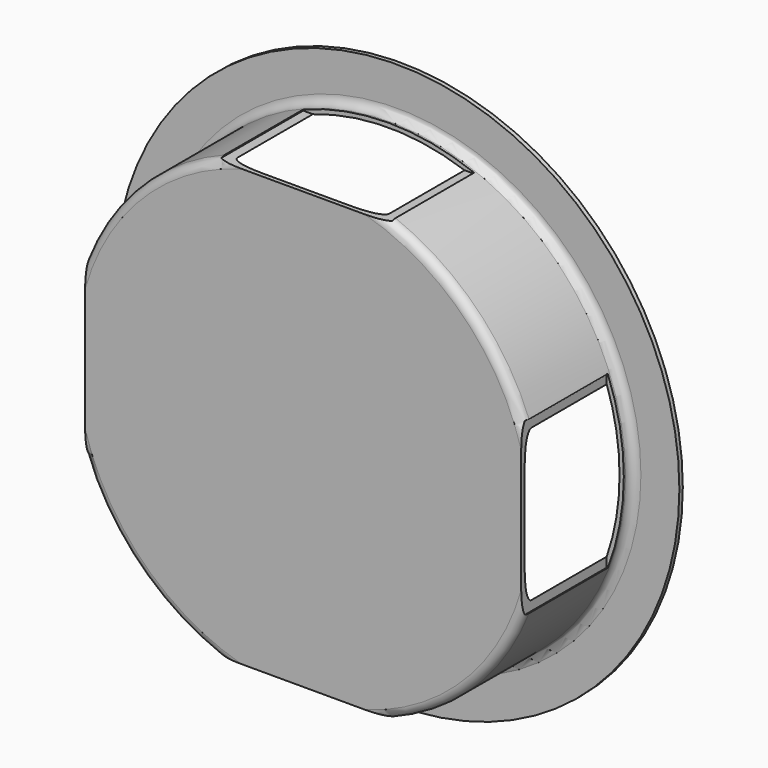
from build123d import *

# Parameters (mm, degrees)
F0_R     = 139.7
F0_R_2   = 138.43
F1_DEPTH = 76.2
F0_R_3   = 167.64
F2_DEPTH = 6.35
F3_T     = -2.54
F4_DEPTH = 3.81
F5_R     = 5.08
F7_DEPTH = 63.5


with BuildPart() as f1:
    # F0 (on Front) → F1 (new body)
    with BuildSketch(Plane.XZ):
        Circle(F0_R)
        Circle(F0_R_2, mode=Mode.SUBTRACT)
        Circle(F0_R_2)
    extrude(amount=F1_DEPTH)

    # F0 (on Front) → F2 (join)
    with BuildSketch(Plane.XZ):
        Circle(F0_R_3)
        Circle(F0_R, mode=Mode.SUBTRACT)
    extrude(amount=F2_DEPTH)

    # F3
    f3_openings = [f1.faces().sort_by_distance(p)[0] for p in [
        (0, 0, 0),
    ]]
    offset(amount=F3_T, openings=f3_openings, kind=Kind.INTERSECTION)

    # F0 (on Front) → F4 (cut)
    with BuildSketch(Plane.XZ):
        Circle(F0_R_3)
        Circle(F0_R, mode=Mode.SUBTRACT)
    extrude(amount=F4_DEPTH, mode=Mode.SUBTRACT)

    # F5
    f5_edges = [f1.edges().sort_by_distance(p)[0] for p in [
        (-139.7, -76.2, 0),
        (-139.7, -6.35, 0),
        (-137.16, -73.66, 0),
    ]]
    fillet(f5_edges, radius=F5_R)

    # F6 (on face) → F7 (cut)
    with BuildSketch(Plane.XZ.offset(76.2)):
        with BuildLine():
            Line((-139.7, -50.8), (-129.54, -50.8))
            Line((-129.54, -50.8), (-129.54, -36.6324009587))
            ThreePointArc((-129.54, -36.6324009587), (-134.62, 0), (-129.54, 36.6324009587))
            Line((-129.54, 36.6324009587), (-129.54, 50.8))
            Line((-129.54, 50.8), (-139.7, 50.8))
            Line((-139.7, 50.8), (-139.7, -50.8))
        make_face()
        with BuildLine():
            ThreePointArc((134.62, 0), (133.3439522438, -18.4914791188), (129.54, -36.6324009587))
            Line((129.54, -36.6324009587), (129.54, -50.8))
            Line((129.54, -50.8), (139.7, -50.8))
            Line((139.7, -50.8), (139.7, 50.8))
            Line((139.7, 50.8), (129.54, 50.8))
            Line((129.54, 50.8), (129.54, 36.6324009587))
            ThreePointArc((129.54, 36.6324009587), (133.3439522438, 18.4914791188), (134.62, 0))
        make_face()
        with BuildLine():
            ThreePointArc((-129.54, 36.6324009587), (-134.62, 0), (-129.54, -36.6324009587))
            Line((-129.54, -36.6324009587), (-129.54, 36.6324009587))
        make_face()
        with BuildLine():
            Line((129.54, 36.6324009587), (129.54, -36.6324009587))
            ThreePointArc((129.54, -36.6324009587), (133.3439522438, -18.4914791188), (134.62, 0))
            ThreePointArc((134.62, 0), (133.3439522438, 18.4914791188), (129.54, 36.6324009587))
        make_face()
        with BuildLine():
            Line((-50.8, 129.54), (-36.6324009587, 129.54))
            ThreePointArc((-36.6324009587, 129.54), (0, 134.62), (36.6324009587, 129.54))
            Line((36.6324009587, 129.54), (50.8, 129.54))
            Line((50.8, 129.54), (50.8, 139.7))
            Line((50.8, 139.7), (-50.8, 139.7))
            Line((-50.8, 139.7), (-50.8, 129.54))
        make_face()
        with BuildLine():
            ThreePointArc((36.6324009587, 129.54), (0, 134.62), (-36.6324009587, 129.54))
            Line((-36.6324009587, 129.54), (36.6324009587, 129.54))
        make_face()
        with BuildLine():
            Line((36.6324009587, -129.54), (-36.6324009587, -129.54))
            ThreePointArc((-36.6324009587, -129.54), (0, -134.62), (36.6324009587, -129.54))
        make_face()
        with BuildLine():
            ThreePointArc((36.6324009587, -129.54), (0, -134.62), (-36.6324009587, -129.54))
            Line((-36.6324009587, -129.54), (-50.8, -129.54))
            Line((-50.8, -129.54), (-50.8, -139.7))
            Line((-50.8, -139.7), (50.8, -139.7))
            Line((50.8, -139.7), (50.8, -129.54))
            Line((50.8, -129.54), (36.6324009587, -129.54))
        make_face()
    extrude(amount=-F7_DEPTH, mode=Mode.SUBTRACT)


solid = f1.part
